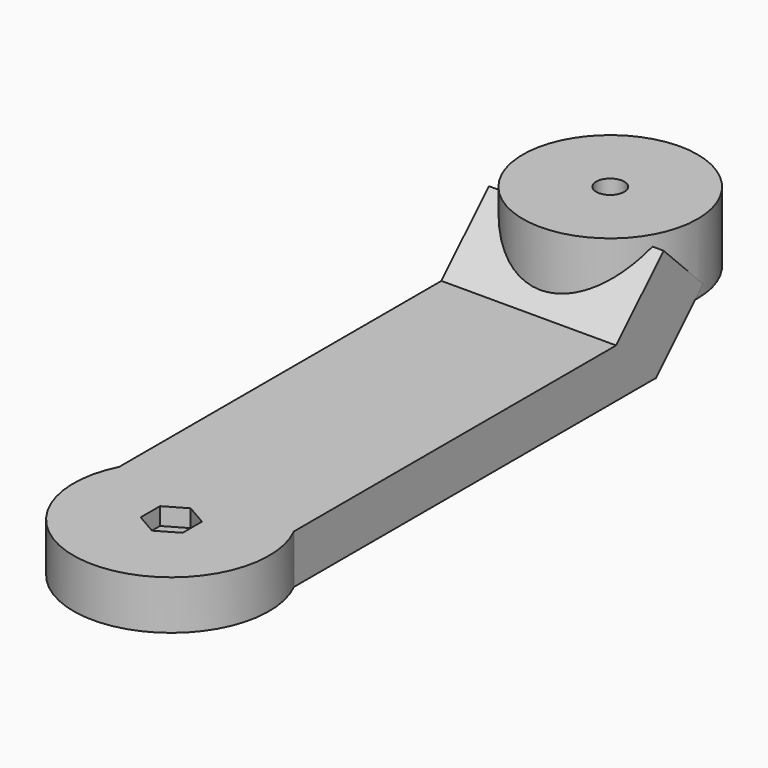
from build123d import *

# Parameters (mm, degrees)
F1_DEPTH  = 7
F2_R      = 12.5
F3_DEPTH  = 10
F4_R      = 2
F5_DEPTH  = 7
F9_W      = 25
F9_H      = 12
F10_DEPTH = 10
F11_R     = 2
F12_DEPTH = 17
F13_R     = 14
F14_DEPTH = 7
F15_R     = 1.65
F16_DEPTH = 7
F18_DEPTH = 2.5


with BuildPart() as f1:
    # F0 (on Top) → F1 (new body)
    with BuildSketch(Plane.XY):
        Polygon((-12.5, -37.5), (12.5, -37.5), (12.5, 37.5), (6.25, 37.5), (-6.25, 37.5), (-12.5, 37.5), align=None)
        with BuildLine():
            Line((-6.25, 37.5), (6.25, 37.5))
            Line((6.25, 37.5), (6.25, 47.5))
            Line((6.25, 47.5), (4.3301270189, 47.5))
            ThreePointArc((4.3301270189, 47.5), (4.8296291314, 46.2940952255), (5, 45))
            ThreePointArc((5, 45), (-1.2940952255, 40.1703708686), (-4.3301270189, 47.5))
            Line((-4.3301270189, 47.5), (-6.25, 47.5))
            Line((-6.25, 47.5), (-6.25, 37.5))
        make_face()
        with BuildLine():
            ThreePointArc((5, 45), (4.8296291314, 46.2940952255), (4.3301270189, 47.5))
            Line((4.3301270189, 47.5), (-4.3301270189, 47.5))
            ThreePointArc((-4.3301270189, 47.5), (-1.2940952255, 40.1703708686), (5, 45))
        make_face()
        with BuildLine():
            Line((-4.3301270189, 47.5), (4.3301270189, 47.5))
            ThreePointArc((4.3301270189, 47.5), (0, 50), (-4.3301270189, 47.5))
        make_face()
    extrude(amount=F1_DEPTH)

    # F2 (on face) → F3 (join)
    with BuildSketch(Plane.XY.offset(7)):
        with Locations((0, 45)):
            Circle(F2_R)
    extrude(amount=F3_DEPTH)

    # F4 (on face) → F5 (cut, through all)
    with BuildSketch(Plane.XY.offset(7)):
        with Locations((0, -33.5)):
            Circle(F4_R)
    extrude(amount=-F5_DEPTH, mode=Mode.SUBTRACT)

    # F9 (on offset) → F10 (join)
    with BuildSketch(Plane(origin=(0, 11.7144660941, -11.7144660941), x_dir=(1, 0, 0), z_dir=(0, -0.7071067812, 0.7071067812))):
        with Locations((0, 32.4662517628)):
            Rectangle(F9_W, F9_H)
    extrude(amount=-F10_DEPTH)

    # F11 (on face) → F12 (cut, through all)
    with BuildSketch(Plane.XY.offset(17)):
        with Locations((0, 45)):
            Circle(F11_R)
    extrude(amount=-F12_DEPTH, mode=Mode.SUBTRACT)

    # F13 (on face) → F14 (join, through all)
    with BuildSketch(Plane(origin=(0, 0, 0), x_dir=(1, 0, 0), z_dir=(0, 0, -1))):
        with Locations((0, 33.5)):
            Circle(F13_R)
    extrude(amount=-F14_DEPTH)

    # F15 (on face) → F16 (cut, through all)
    with BuildSketch(Plane.XY.offset(7)):
        with Locations((0, -33.5)):
            Circle(F15_R)
    extrude(amount=-F16_DEPTH, mode=Mode.SUBTRACT)

    # F17 (on face) → F18 (cut)
    with BuildSketch(Plane.XY.offset(7)):
        Polygon((0, -36.9641016151), (3, -35.2320508076), (3, -31.7679491924), (0, -30.0358983849), (-3, -31.7679491924), (-3, -35.2320508076), align=None)
    extrude(amount=-F18_DEPTH, mode=Mode.SUBTRACT)


solid = f1.part
